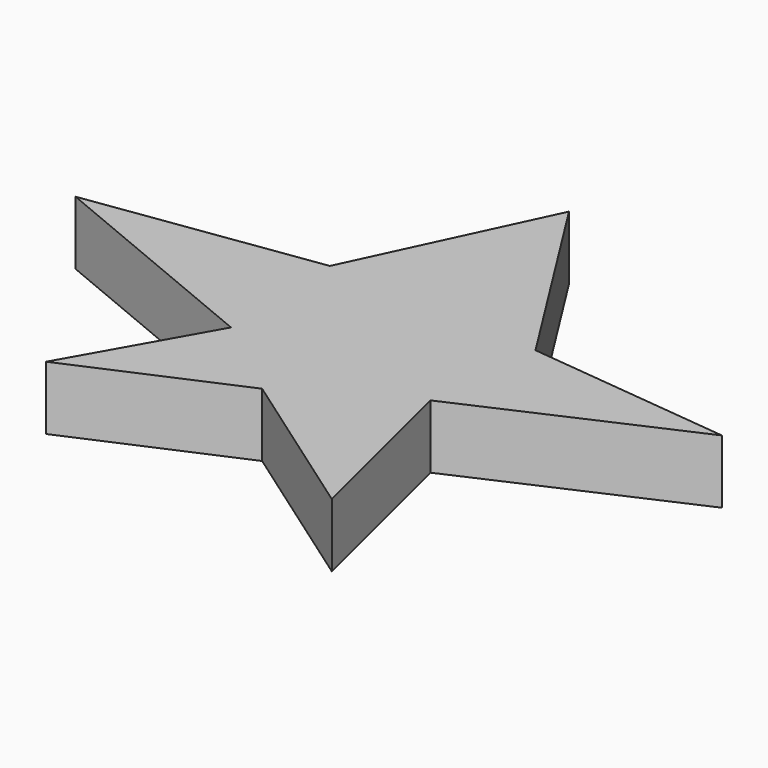
from build123d import *

# Parameters (mm, degrees)
PAD_DEPTH = 10


with BuildPart() as part:
    # Sketch → Pad (new body)
    with BuildSketch(Plane.XY):
        Polygon((0, 39.056526), (19.809637, 7.713141), (51.810345, 4.325639), (18.055937, -10.743299), (24.987648, -38.771519), (0, -21.219215), (-25.178665, -32.178829), (-13.153262, -10.892826), (-49.754272, 4.325639), (-13.890213, 9.449075), align=None)
    extrude(amount=PAD_DEPTH)


solid = part.part
